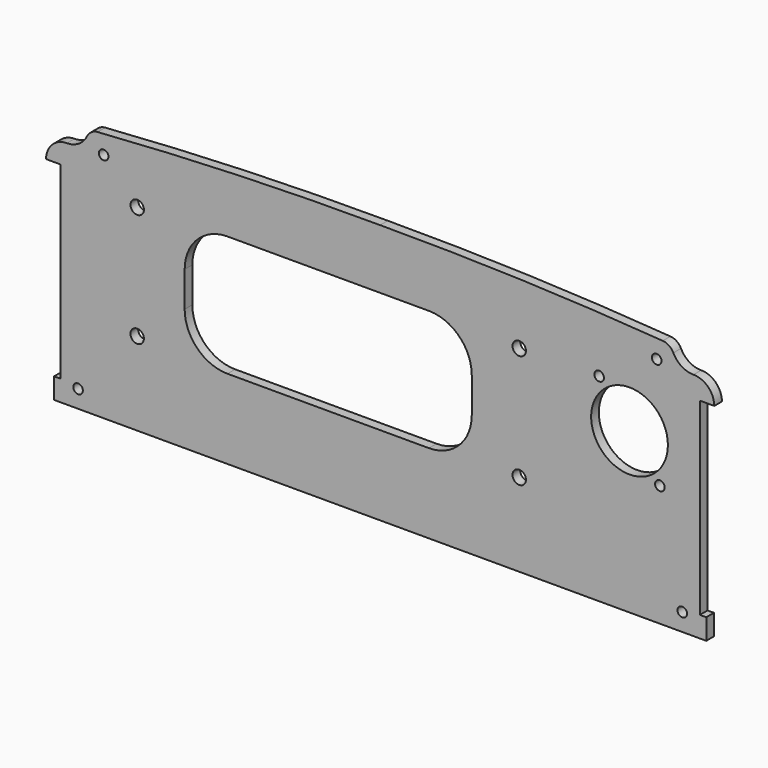
from build123d import *

# Parameters (mm, degrees)
F0_R     = 1.5
F1_DEPTH = 3
F2_R     = 12
F2_R_2   = 1.5
F3_DEPTH = 25
F4_R     = 2.1
F5_DEPTH = 25


with BuildPart() as f1:
    # F0 (on Front) → F1 (new body)
    with BuildSketch(Plane.XZ):
        with BuildLine():
            Line((-102, -16.5), (-102, -23))
            Line((-102, -23), (0, -23))
            Line((0, -23), (102, -23))
            Line((102, -23), (102, -16.5))
            Line((102, -16.5), (100, -16.5))
            Line((100, -16.5), (100, 42.5))
            Line((100, 42.5), (104.5, 42.5))
            ThreePointArc((104.5, 42.5), (102.596194, 47.096194), (98, 49))
            ThreePointArc((98, 49), (94.28238, 50.068786), (91.7, 52.948771))
            ThreePointArc((91.7, 52.948771), (90.347923, 54.513813), (88.394881, 55.194327))
            ThreePointArc((88.394881, 55.194327), (44.227467, 57.601774), (0, 58.3))
            ThreePointArc((0, 58.3), (-44.227467, 57.601774), (-88.394881, 55.194327))
            ThreePointArc((-88.394881, 55.194327), (-90.347923, 54.513813), (-91.7, 52.948771))
            ThreePointArc((-91.7, 52.948771), (-94.28238, 50.068786), (-98, 49))
            ThreePointArc((-98, 49), (-102.596194, 47.096194), (-104.5, 42.5))
            Line((-104.5, 42.5), (-102, 42.5))
            Line((-102, 42.5), (-100, 42.5))
            Line((-100, 42.5), (-100, -16.5))
            Line((-100, -16.5), (-102, -16.5))
        make_face()
        with Locations((-94.5, -17.5)):
            Circle(F0_R, mode=Mode.SUBTRACT)
        with Locations((94.5, -17.5)):
            Circle(F0_R, mode=Mode.SUBTRACT)
        with Locations((-86.5, 49.5)):
            Circle(F0_R, mode=Mode.SUBTRACT)
        with Locations((86.5, 49.5)):
            Circle(F0_R, mode=Mode.SUBTRACT)
    extrude(amount=F1_DEPTH)

    # F2 (on face) → F3 (cut)
    with BuildSketch(Plane.XZ.offset(3)):
        with Locations((78, 27)):
            Circle(F2_R)
        with Locations((87.5, 15)):
            Circle(F2_R_2)
        with Locations((68.5, 39)):
            Circle(F2_R_2)
    extrude(amount=-F3_DEPTH, mode=Mode.SUBTRACT)

    # F4 (on face) → F5 (cut)
    with BuildSketch(Plane.XZ.offset(3)):
        with BuildLine():
            Line((15.25, 39.65), (-47.75, 39.65))
            ThreePointArc((-47.75, 39.65), (-57.225231, 35.725231), (-61.15, 26.25))
            Line((-61.15, 26.25), (-61.15, 15.25))
            ThreePointArc((-61.15, 15.25), (-57.225231, 5.774769), (-47.75, 1.85))
            Line((-47.75, 1.85), (15.25, 1.85))
            ThreePointArc((15.25, 1.85), (24.725231, 5.774769), (28.65, 15.25))
            Line((28.65, 15.25), (28.65, 26.25))
            ThreePointArc((28.65, 26.25), (24.725231, 35.725231), (15.25, 39.65))
        make_face()
        with Locations((-76, 38.5)):
            Circle(F4_R)
        with Locations((-76, 3)):
            Circle(F4_R)
        with Locations((43.5, 3)):
            Circle(F4_R)
        with Locations((43.5, 38.5)):
            Circle(F4_R)
    extrude(amount=-F5_DEPTH, mode=Mode.SUBTRACT)


solid = f1.part
